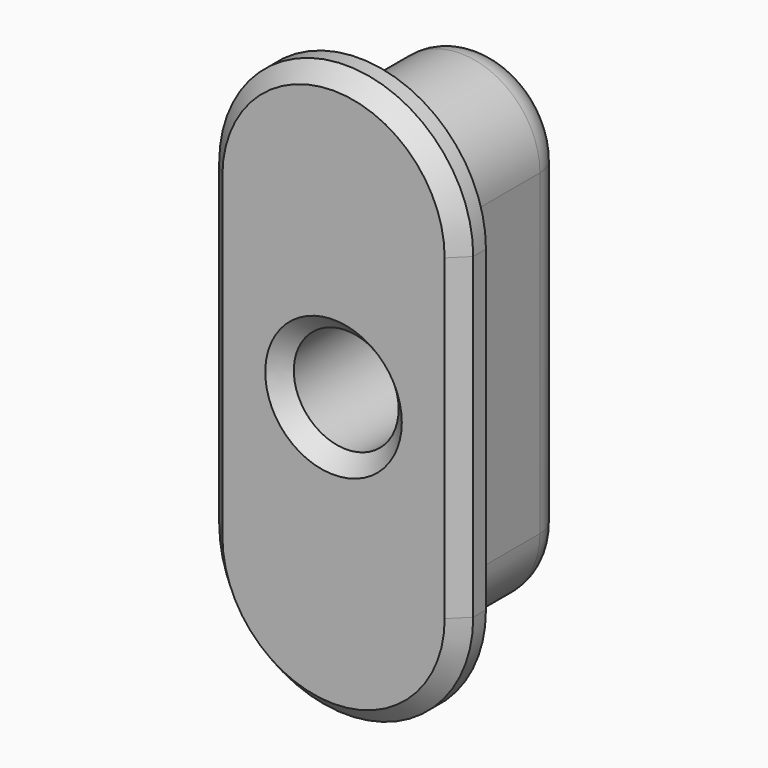
from build123d import *

# Parameters (mm, degrees)
PAD_DEPTH       = 2.5
PAD001_DEPTH    = 1
CHAMFER_SIZE    = 0.5
FILLET_R        = 1
SKETCH002_R     = 1.65
POCKET_DEPTH    = 6.001
CHAMFER001_SIZE = 0.5


with BuildPart() as part:
    # Sketch → Pad (new body, symmetric)
    with BuildSketch(Plane.XZ):
        with BuildLine():
            ThreePointArc((-2.5, -5), (0, -7.5), (2.5, -5))
            Line((2.5, -5), (2.5, 5))
            ThreePointArc((2.5, 5), (0, 7.5), (-2.5, 5))
            Line((-2.5, -5), (-2.5, 5))
        make_face()
    extrude(amount=PAD_DEPTH, both=True)

    # Sketch001 (on Face6 of Pad) → Pad001 (join)
    with BuildSketch(Plane.XZ.offset(2.5)):
        with BuildLine():
            ThreePointArc((4, 5), (0, 9), (-4, 5))
            Line((-4, 5), (-4, -5))
            ThreePointArc((-4, -5), (0, -9), (4, -5))
            Line((4, 5), (4, -5))
        make_face()
    extrude(amount=PAD001_DEPTH)

    # Chamfer
    chamfer_edges = [part.edges().sort_by_distance(p)[0] for p in [
        (0, -3.5, 9),
    ]]
    chamfer(chamfer_edges, length=CHAMFER_SIZE)

    # Fillet
    fillet_edges = [part.edges().sort_by_distance(p)[0] for p in [
        (0, 2.5, 7.5),
    ]]
    fillet(fillet_edges, radius=FILLET_R)

    # Sketch002 (on Face19 of Fillet) → Pocket (cut, through all)
    with BuildSketch(Plane.XZ.offset(3.5)):
        Circle(SKETCH002_R)
    extrude(amount=-POCKET_DEPTH, mode=Mode.SUBTRACT)

    # Chamfer001
    chamfer001_edges = [part.edges().sort_by_distance(p)[0] for p in [
        (-1.65, -3.5, 0),
    ]]
    chamfer(chamfer001_edges, length=CHAMFER001_SIZE)


solid = part.part
